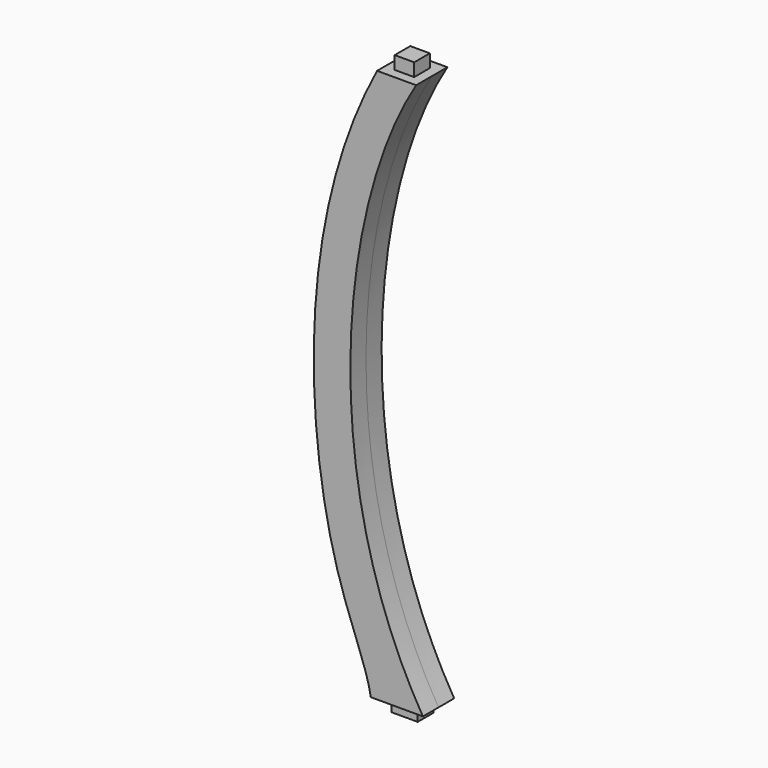
from build123d import *

# Parameters (mm, degrees)
F1_DEPTH = 76.2
F2_W     = 101.6
F2_H     = 76.2
F3_DEPTH = 50.8
F4_W     = 76.2
F4_H     = 76.2
F5_DEPTH = 50.8


with BuildPart() as f1:
    # F0 (on Front) → F1 (new body, symmetric)
    with BuildSketch(Plane.XZ):
        with BuildLine():
            add(Edge.make_bspline(
                [(-945.5808670162, 965.2), (-1242.0630128025, 484.7582280636), (-1340.5170440674, -494.4096505642), (-919.226, -1193.8)],
                knots=[0, 0, 0, 0, 2159.1608506583, 2159.1608506583, 2159.1608506583, 2159.1608506583], degree=3))
            Line((-945.5808670162, 965.2), (-1097.9808670162, 965.2))
            add(Edge.make_bspline(
                [(-1097.9808670162, 965.2), (-1417.2196388245, 366.0375773907), (-1348.5663086676, -720.7227352137), (-1140.6033039093, -1081.5900564194), (-1122.426, -1193.8)],
                knots=[0, 0, 0, 0, 0.6575295809, 1, 1, 1, 1], degree=3))
            Line((-1122.426, -1193.8), (-919.226, -1193.8))
        make_face()
    extrude(amount=F1_DEPTH, both=True)

    # F2 (on face) → F3 (join)
    with BuildSketch(Plane(origin=(0, 0, -1193.8), x_dir=(1, 0, 0), z_dir=(0, 0, -1))):
        with Locations((-1020.826, 0)):
            Rectangle(F2_W, F2_H)
    extrude(amount=F3_DEPTH)

    # F4 (on face) → F5 (join)
    with BuildSketch(Plane.XY.offset(965.2)):
        with Locations((-1021.7808670162, 0)):
            Rectangle(F4_W, F4_H)
    extrude(amount=F5_DEPTH)


solid = f1.part
